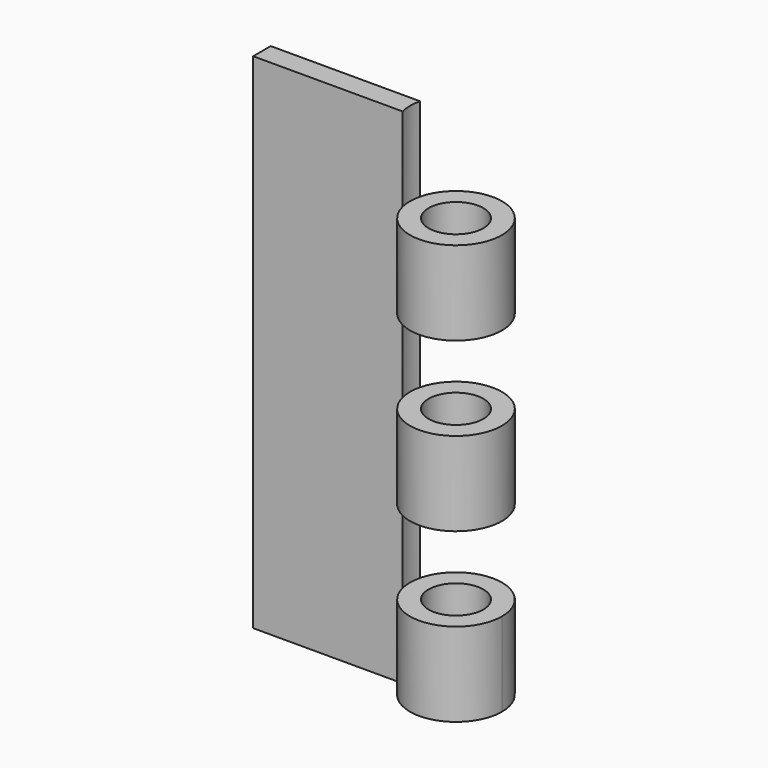
from build123d import *

# Parameters (mm, degrees)
F1_DEPTH = 152.4
F0_R     = 8.277939
F2_DEPTH = 25.4
F5_R     = 8.277939
F6_DEPTH = 25.4
F7_R     = 8.277939
F8_DEPTH = 25.4


with BuildPart() as f1:
    # F0 (on Top) → F1 (new body)
    with BuildSketch(Plane.XY):
        with BuildLine():
            ThreePointArc((-13.505174, -3.321212), (-13.907558, 0), (-13.505174, 3.321212))
            Line((-13.505174, 3.321212), (-58.726565, 3.321212))
            Line((-58.726565, 3.321212), (-58.726565, -3.321212))
            Line((-58.726565, -3.321212), (-13.505174, -3.321212))
        make_face()
    extrude(amount=F1_DEPTH)

    # F0 (on Top) → F2 (join)
    with BuildSketch(Plane.XY):
        with BuildLine():
            ThreePointArc((13.907558, 0), (1.672749, 13.806595), (-13.505174, 3.321212))
            ThreePointArc((-13.505174, 3.321212), (-13.907558, 0), (-13.505174, -3.321212))
            ThreePointArc((-13.505174, -3.321212), (1.672749, -13.806595), (13.907558, 0))
        make_face()
        Circle(F0_R, mode=Mode.SUBTRACT)
    extrude(amount=F2_DEPTH)

    # F5 (on offset) → F6 (join)
    with BuildSketch(Plane.XY.offset(50.8)):
        with BuildLine():
            ThreePointArc((-13.505174, -3.321212), (13.907558, 0), (-13.505174, 3.321212))
            ThreePointArc((-13.505174, 3.321212), (-13.907558, 0), (-13.505174, -3.321212))
        make_face()
        Circle(F5_R, mode=Mode.SUBTRACT)
    extrude(amount=F6_DEPTH)

    # F7 (on offset) → F8 (join)
    with BuildSketch(Plane.XY.offset(101.6)):
        with BuildLine():
            ThreePointArc((-13.505174, -3.321212), (13.907558, 0), (-13.505174, 3.321212))
            ThreePointArc((-13.505174, 3.321212), (-13.907558, 0), (-13.505174, -3.321212))
        make_face()
        Circle(F7_R, mode=Mode.SUBTRACT)
    extrude(amount=F8_DEPTH)


solid = f1.part
